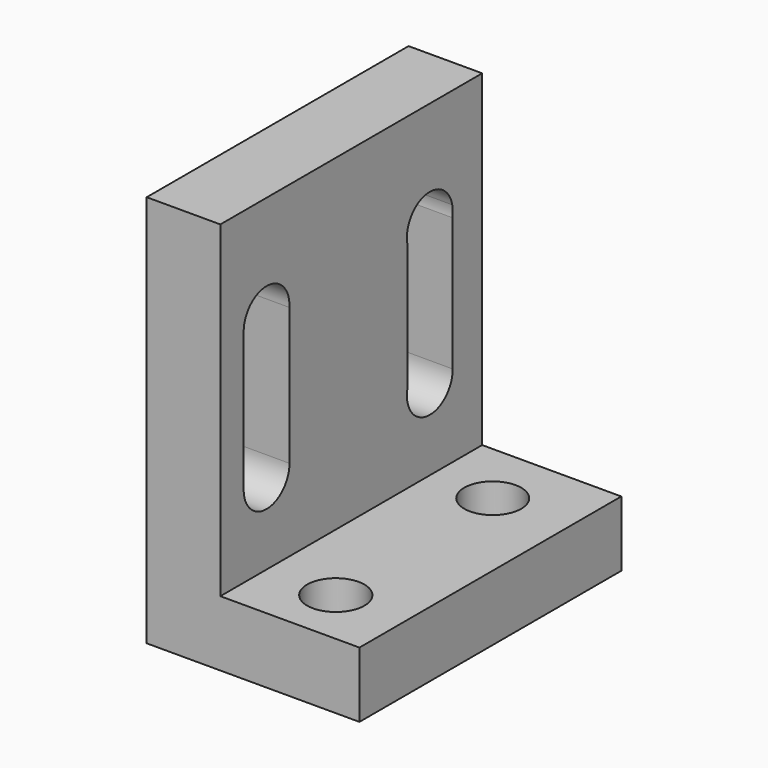
from build123d import *

# Parameters (mm, degrees)
F1_DEPTH = 40
F2_R     = 3.5
F2_R_2   = 3.48483
F3_DEPTH = 25
F5_DEPTH = 25


with BuildPart() as f1:
    # F0 (on Front) → F1 (new body)
    with BuildSketch(Plane.XZ):
        Polygon((0, 0), (0, 40), (-9, 40), (-9, 0), (-9, -8), (17, -8), (17, 0), align=None)
    extrude(amount=F1_DEPTH)

    # F2 (on face) → F3 (cut)
    with BuildSketch(Plane.XY):
        with Locations((8.459888, -32.94181)):
            Circle(F2_R)
        with Locations((7.651556, -7.954882)):
            Circle(F2_R_2)
    extrude(amount=-F3_DEPTH, mode=Mode.SUBTRACT)

    # F4 (on face) → F5 (cut)
    with BuildSketch(Plane.YZ):
        with BuildLine():
            Line((-29.44, 10.001492), (-29.447151, 26.776387))
            ThreePointArc((-29.447151, 26.776387), (-32.855382, 30.498977), (-36.439575, 26.94549))
            Line((-36.439575, 26.94549), (-36.439575, 10.05451))
            Line((-36.439575, 10.05451), (-36.439575, 9.94549))
            ThreePointArc((-36.439575, 9.94549), (-32.911998, 6.500112), (-29.44, 10.001492))
        make_face()
        with BuildLine():
            Line((-36.439575, 9.94549), (-36.439575, 10.05451))
            ThreePointArc((-36.439575, 10.05451), (-36.44, 10), (-36.439575, 9.94549))
        make_face()
        with BuildLine():
            Line((-11.436366, 9.335628), (-11.436366, 10.664372))
            ThreePointArc((-11.436366, 10.664372), (-11.5, 10), (-11.436366, 9.335628))
        make_face()
        with BuildLine():
            Line((-11.436366, 26.335628), (-11.436366, 10.664372))
            Line((-11.436366, 10.664372), (-11.436366, 9.335628))
            ThreePointArc((-11.436366, 9.335628), (-7.659282, 6.516624), (-4.500028, 10.01409))
            Line((-4.500028, 10.01409), (-4.565691, 26.325079))
            Line((-4.565691, 26.325079), (-4.571236, 27.70255))
            ThreePointArc((-4.571236, 27.70255), (-8.019464, 30.499946), (-11.436366, 27.664372))
            Line((-11.436366, 27.664372), (-11.436366, 26.335628))
        make_face()
        with BuildLine():
            ThreePointArc((-11.436366, 27.664372), (-11.5, 27), (-11.436366, 26.335628))
            Line((-11.436366, 26.335628), (-11.436366, 27.664372))
        make_face()
        with BuildLine():
            Line((-4.571236, 27.70255), (-4.565691, 26.325079))
            ThreePointArc((-4.565691, 26.325079), (-4.500028, 27.01409), (-4.571236, 27.70255))
        make_face()
    extrude(amount=-F5_DEPTH, mode=Mode.SUBTRACT)


solid = f1.part
